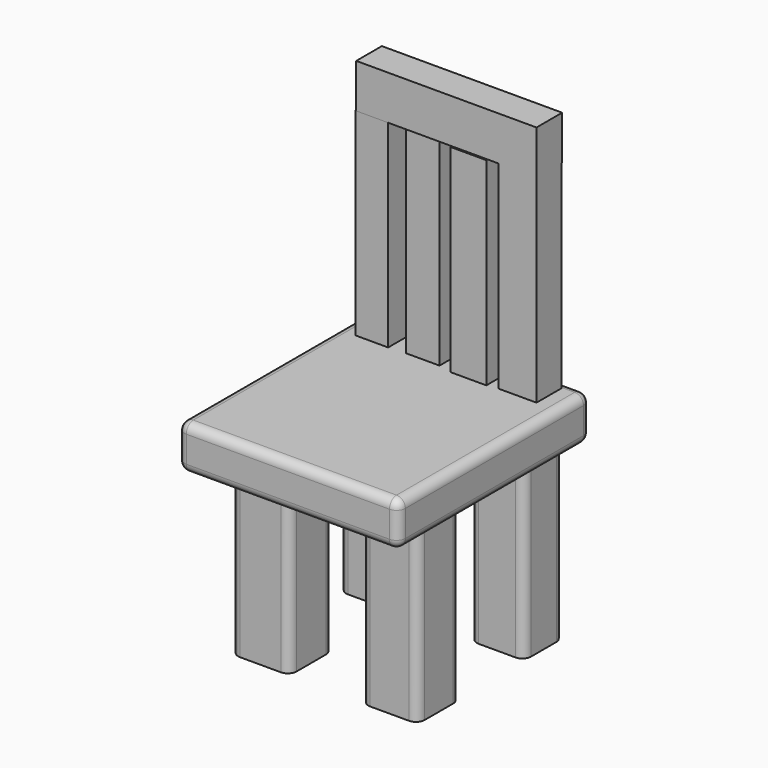
from build123d import *

# Parameters (mm, degrees)
F0_W     = 31.282105
F0_H     = 30.078944
F0_W_2   = 31.282097
F0_H_2   = 28.274209
F0_W_3   = 33.688415
F0_H_3   = 31.282105
F0_W_4   = 32.485254
F0_H_4   = 30.68053
F1_DEPTH = 101.6
F2_W     = 127.317488
F2_H     = 138.53997
F3_DEPTH = 25.4
F4_R     = 5.08
F5_W     = 18.786639
F5_H     = 18.160425
F5_W_2   = 19.412856
F5_H_2   = 17.534204
F5_W_3   = 20.665298
F5_H_3   = 18.786639
F5_W_4   = 21.917746
F5_H_4   = 18.160418
F6_DEPTH = 114.3
F7_W     = 103.952736
F7_H     = 18.473532
F8_DEPTH = 25.4
F9_R     = 5.08
F10_R    = 5.08
F11_R    = 5.08
F12_R    = 5.08


with BuildPart() as f1:
    # F0 (on Top) → F1 (new body)
    with BuildSketch(Plane.XY):
        with Locations((-39.854604, 38.952235)):
            Rectangle(F0_W, F0_H)
        with Locations((36.245133, 37.147499)):
            Rectangle(F0_W_2, F0_H_2)
        with Locations((-38.350656, -38.651447)):
            Rectangle(F0_W_3, F0_H_3)
        with Locations((36.846712, -39.854605)):
            Rectangle(F0_W_4, F0_H_4)
    extrude(amount=F1_DEPTH)

    # F9
    f9_edges = [f1.edges().sort_by_distance(p)[0] for p in [
        (53.089339, -55.19487, 50.8),
        (53.089339, -24.51434, 50.8),
        (20.604085, -24.51434, 50.8),
        (20.604085, -55.19487, 50.8),
    ]]
    fillet(f9_edges, radius=F9_R)

    # F10
    f10_edges = [f1.edges().sort_by_distance(p)[0] for p in [
        (-55.194864, -54.2925, 50.8),
        (-55.194864, -23.010395, 50.8),
        (-21.506449, -54.2925, 50.8),
        (-21.506449, -23.010395, 50.8),
    ]]
    fillet(f10_edges, radius=F10_R)

    # F11
    f11_edges = [f1.edges().sort_by_distance(p)[0] for p in [
        (-55.495657, 53.991707, 50.8),
        (-55.495657, 23.912763, 50.8),
        (-24.213552, 53.991707, 50.8),
        (-24.213552, 23.912763, 50.8),
    ]]
    fillet(f11_edges, radius=F11_R)

    # F12
    f12_edges = [f1.edges().sort_by_distance(p)[0] for p in [
        (51.886182, 23.010395, 50.8),
        (51.886182, 51.284604, 50.8),
        (20.604085, 23.010395, 50.8),
        (20.604085, 51.284604, 50.8),
    ]]
    fillet(f12_edges, radius=F12_R)


with BuildPart() as f3:
    # F2 (on face) → F3 (new body)
    with BuildSketch(Plane.XY.offset(101.6)):
        with Locations((0.041768, -13.172746)):
            Rectangle(F2_W, F2_H)
    extrude(amount=F3_DEPTH)

    # F4
    f4_edges = [f3.edges().sort_by_distance(p)[0] for p in [
        (-63.616976, -82.442731, 114.3),
        (63.700512, -82.442731, 114.3),
        (0.041768, -82.442731, 101.6),
        (0.041768, -82.442731, 127),
        (-63.616976, 56.097239, 114.3),
        (-63.616976, -13.172746, 101.6),
        (-63.616976, -13.172746, 127),
        (63.700512, 56.097239, 114.3),
        (63.700512, -13.172746, 101.6),
        (63.700512, -13.172746, 127),
        (0.041768, 56.097239, 101.6),
        (0.041768, 56.097239, 127),
    ]]
    fillet(f4_edges, radius=F4_R)

    # F5 (on face) → F6 (join)
    with BuildSketch(Plane.XY.offset(127)):
        with Locations((-43.678935, 41.810018)):
            Rectangle(F5_W, F5_H)
        with Locations((-14.872756, 42.123128)):
            Rectangle(F5_W_2, F5_H_2)
        with Locations((12.994093, 40.870682)):
            Rectangle(F5_W_3, F5_H_3)
        with Locations((40.547829, 41.496903)):
            Rectangle(F5_W_4, F5_H_4)
    extrude(amount=F6_DEPTH)

    # F7 (on face) → F8 (join)
    with BuildSketch(Plane.XY.offset(241.3)):
        with Locations((-0.469666, 41.65346)):
            Rectangle(F7_W, F7_H)
    extrude(amount=F8_DEPTH)


solid = Compound([f1.part, f3.part])
